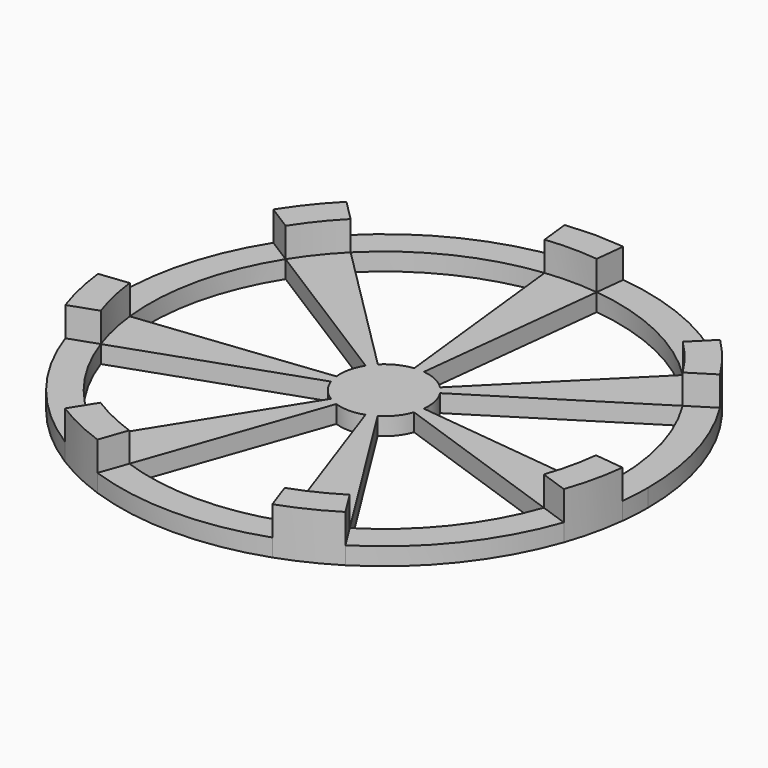
from build123d import *

# Parameters (mm, degrees)
F1_DEPTH = 3
F2_DEPTH = 8


with BuildPart() as f1:
    # F0 (on Top) → F1 (new body)
    with BuildSketch(Plane.XY):
        with BuildLine():
            Line((-4.4375804335, 39.7530864198), (-4.9922779877, 44.7222222222))
            ThreePointArc((-4.9922779877, 44.7222222222), (-19.5247682603, 40.5435990556), (-31.8526068859, 31.786969572))
            Line((-31.8526068859, 31.786969572), (-28.313428343, 28.255084064))
            ThreePointArc((-28.313428343, 28.255084064), (-17.3553495647, 36.0387547161), (-4.4375804335, 39.7530864198))
        make_face()
        with BuildLine():
            Line((-28.313428343, 28.255084064), (-31.8526068859, 31.786969572))
            ThreePointArc((-31.8526068859, 31.786969572), (-35.1824167111, 28.0570410836), (-38.0778757126, 23.980729372))
            Line((-38.0778757126, 23.980729372), (-33.8470006334, 21.3162038862))
            ThreePointArc((-33.8470006334, 21.3162038862), (-31.2732592987, 24.9395920743), (-28.313428343, 28.255084064))
        make_face()
        with BuildLine():
            ThreePointArc((-6.3463126188, 3.9967882287), (-5.8637361185, 4.6761735139), (-5.3087678143, 5.297828262))
            Line((-5.3087678143, 5.297828262), (-28.313428343, 28.255084064))
            ThreePointArc((-28.313428343, 28.255084064), (-31.2732592987, 24.9395920743), (-33.8470006334, 21.3162038862))
            Line((-33.8470006334, 21.3162038862), (-6.3463126188, 3.9967882287))
        make_face()
        with BuildLine():
            ThreePointArc((-7.0816760631, -2.4697903022), (-7.3119593414, -1.6689070047), (-7.4519715166, -0.847419917))
            Line((-7.4519715166, -0.847419917), (-39.7438480886, -4.5195728906))
            ThreePointArc((-39.7438480886, -4.5195728906), (-38.9971164873, -8.9008373583), (-37.7689390034, -13.1722149449))
            Line((-37.7689390034, -13.1722149449), (-7.0816760631, -2.4697903022))
        make_face()
        with BuildLine():
            ThreePointArc((-37.7689390034, -13.1722149449), (-38.9971164873, -8.9008373583), (-39.7438480886, -4.5195728906))
            Line((-39.7438480886, -4.5195728906), (-44.7118290996, -5.0845195019))
            ThreePointArc((-44.7118290996, -5.0845195019), (-43.8717560482, -10.013442028), (-42.4900563789, -14.818741813))
            Line((-42.4900563789, -14.818741813), (-37.7689390034, -13.1722149449))
        make_face()
        with BuildLine():
            ThreePointArc((-39.7438480886, -4.5195728906), (-38.9971164873, 8.9008373583), (-33.8470006334, 21.3162038862))
            Line((-33.8470006334, 21.3162038862), (-38.0778757126, 23.980729372))
            ThreePointArc((-38.0778757126, 23.980729372), (-43.8717560482, 10.013442028), (-44.7118290996, -5.0845195019))
            Line((-44.7118290996, -5.0845195019), (-39.7438480886, -4.5195728906))
        make_face()
        with BuildLine():
            ThreePointArc((-21.2463395966, -33.8908992761), (-31.2732592987, -24.9395920743), (-37.7689390034, -13.1722149449))
            Line((-37.7689390034, -13.1722149449), (-42.4900563789, -14.818741813))
            ThreePointArc((-42.4900563789, -14.818741813), (-35.1824167111, -28.0570410836), (-23.9021320462, -38.1272616856))
            Line((-23.9021320462, -38.1272616856), (-21.2463395966, -33.8908992761))
        make_face()
        with BuildLine():
            ThreePointArc((-2.4843929921, -7.0765663609), (-3.2541280434, -6.7572665093), (-3.9836886744, -6.3545436143))
            Line((-3.9836886744, -6.3545436143), (-21.2463395966, -33.8908992761))
            ThreePointArc((-21.2463395966, -33.8908992761), (-17.3553495647, -36.0387547161), (-13.2500959579, -37.7416872583))
            Line((-13.2500959579, -37.7416872583), (-2.4843929921, -7.0765663609))
        make_face()
        with BuildLine():
            ThreePointArc((-23.9021320462, -38.1272616856), (-19.5247682603, -40.5435990556), (-14.9063579526, -42.4593981656))
            Line((-14.9063579526, -42.4593981656), (-13.2500959579, -37.7416872583))
            ThreePointArc((-13.2500959579, -37.7416872583), (-17.3553495647, -36.0387547161), (-21.2463395966, -33.8908992761))
            Line((-21.2463395966, -33.8908992761), (-23.9021320462, -38.1272616856))
        make_face()
        with BuildLine():
            ThreePointArc((-14.9063579526, -42.4593981656), (0, -45), (14.9063579526, -42.4593981656))
            Line((14.9063579526, -42.4593981656), (13.2500959579, -37.7416872583))
            ThreePointArc((13.2500959579, -37.7416872583), (0, -40), (-13.2500959579, -37.7416872583))
            Line((-13.2500959579, -37.7416872583), (-14.9063579526, -42.4593981656))
        make_face()
        with BuildLine():
            ThreePointArc((14.9063579526, -42.4593981656), (19.5247682603, -40.5435990556), (23.9021320462, -38.1272616856))
            Line((23.9021320462, -38.1272616856), (21.2463395966, -33.8908992761))
            ThreePointArc((21.2463395966, -33.8908992761), (17.3553495647, -36.0387547161), (13.2500959579, -37.7416872583))
            Line((13.2500959579, -37.7416872583), (14.9063579526, -42.4593981656))
        make_face()
        with BuildLine():
            ThreePointArc((13.2500959579, -37.7416872583), (17.3553495647, -36.0387547161), (21.2463395966, -33.8908992761))
            Line((21.2463395966, -33.8908992761), (3.9836886744, -6.3545436143))
            ThreePointArc((3.9836886744, -6.3545436143), (3.2541280434, -6.7572665093), (2.4843929921, -7.0765663609))
            Line((2.4843929921, -7.0765663609), (13.2500959579, -37.7416872583))
        make_face()
        with BuildLine():
            ThreePointArc((23.9021320462, -38.1272616856), (35.1824167111, -28.0570410836), (42.4900563789, -14.818741813))
            Line((42.4900563789, -14.818741813), (37.7689390034, -13.1722149449))
            ThreePointArc((37.7689390034, -13.1722149449), (31.2732592987, -24.9395920743), (21.2463395966, -33.8908992761))
            Line((21.2463395966, -33.8908992761), (23.9021320462, -38.1272616856))
        make_face()
        with BuildLine():
            ThreePointArc((42.4900563789, -14.818741813), (43.8717560482, -10.013442028), (44.7118290996, -5.0845195019))
            Line((44.7118290996, -5.0845195019), (39.7438480886, -4.5195728906))
            ThreePointArc((39.7438480886, -4.5195728906), (38.9971164873, -8.9008373583), (37.7689390034, -13.1722149449))
            Line((37.7689390034, -13.1722149449), (42.4900563789, -14.818741813))
        make_face()
        with BuildLine():
            ThreePointArc((37.7689390034, -13.1722149449), (38.9971164873, -8.9008373583), (39.7438480886, -4.5195728906))
            Line((39.7438480886, -4.5195728906), (7.4519715166, -0.847419917))
            ThreePointArc((7.4519715166, -0.847419917), (7.3119593414, -1.6689070047), (7.0816760631, -2.4697903022))
            Line((7.0816760631, -2.4697903022), (37.7689390034, -13.1722149449))
        make_face()
        with BuildLine():
            Line((-5.3087678143, 5.297828262), (0, 0))
            Line((0, 0), (-0.8320463313, 7.4537037037))
            ThreePointArc((-0.8320463313, 7.4537037037), (-3.2541280434, 6.7572665093), (-5.3087678143, 5.297828262))
        make_face()
        with BuildLine():
            Line((-6.3463126188, 3.9967882287), (0, 0))
            Line((0, 0), (-5.3087678143, 5.297828262))
            ThreePointArc((-5.3087678143, 5.297828262), (-5.8637361185, 4.6761735139), (-6.3463126188, 3.9967882287))
        make_face()
        with BuildLine():
            Line((-7.4519715166, -0.847419917), (0, 0))
            Line((0, 0), (-6.3463126188, 3.9967882287))
            ThreePointArc((-6.3463126188, 3.9967882287), (-7.3119593414, 1.6689070047), (-7.4519715166, -0.847419917))
        make_face()
        with BuildLine():
            Line((-7.0816760631, -2.4697903022), (0, 0))
            Line((0, 0), (-7.4519715166, -0.847419917))
            ThreePointArc((-7.4519715166, -0.847419917), (-7.3119593414, -1.6689070047), (-7.0816760631, -2.4697903022))
        make_face()
        with BuildLine():
            Line((-3.9836886744, -6.3545436143), (0, 0))
            Line((0, 0), (-7.0816760631, -2.4697903022))
            ThreePointArc((-7.0816760631, -2.4697903022), (-5.8637361185, -4.6761735139), (-3.9836886744, -6.3545436143))
        make_face()
        with BuildLine():
            Line((-2.4843929921, -7.0765663609), (0, 0))
            Line((0, 0), (-3.9836886744, -6.3545436143))
            ThreePointArc((-3.9836886744, -6.3545436143), (-3.2541280434, -6.7572665093), (-2.4843929921, -7.0765663609))
        make_face()
        with BuildLine():
            Line((2.4843929921, -7.0765663609), (0, 0))
            Line((0, 0), (-2.4843929921, -7.0765663609))
            ThreePointArc((-2.4843929921, -7.0765663609), (0, -7.5), (2.4843929921, -7.0765663609))
        make_face()
        with BuildLine():
            Line((3.9836886744, -6.3545436143), (0, 0))
            Line((0, 0), (2.4843929921, -7.0765663609))
            ThreePointArc((2.4843929921, -7.0765663609), (3.2541280434, -6.7572665093), (3.9836886744, -6.3545436143))
        make_face()
        with BuildLine():
            Line((7.0816760631, -2.4697903022), (0, 0))
            Line((0, 0), (3.9836886744, -6.3545436143))
            ThreePointArc((3.9836886744, -6.3545436143), (5.8637361185, -4.6761735139), (7.0816760631, -2.4697903022))
        make_face()
        with BuildLine():
            ThreePointArc((7.0816760631, -2.4697903022), (7.3119593414, -1.6689070047), (7.4519715166, -0.847419917))
            Line((7.4519715166, -0.847419917), (0, 0))
            Line((0, 0), (7.0816760631, -2.4697903022))
        make_face()
        with BuildLine():
            ThreePointArc((7.5, 0), (7.2058082351, 2.0799826152), (6.3463126188, 3.9967882287))
            Line((6.3463126188, 3.9967882287), (0, 0))
            Line((0, 0), (7.4519715166, -0.847419917))
            ThreePointArc((7.4519715166, -0.847419917), (7.4879832523, -0.4243899301), (7.5, 0))
        make_face()
        with BuildLine():
            Line((0, 0), (6.3463126188, 3.9967882287))
            ThreePointArc((6.3463126188, 3.9967882287), (5.8637361185, 4.6761735139), (5.3087678143, 5.297828262))
            Line((5.3087678143, 5.297828262), (0, 0))
        make_face()
        with BuildLine():
            Line((0, 0), (5.3087678143, 5.297828262))
            ThreePointArc((5.3087678143, 5.297828262), (3.2541280434, 6.7572665093), (0.8320463313, 7.4537037037))
            Line((0.8320463313, 7.4537037037), (0, 0))
        make_face()
        with BuildLine():
            Line((-0.8320463313, 7.4537037037), (0, 0))
            Line((0, 0), (0.8320463313, 7.4537037037))
            ThreePointArc((0.8320463313, 7.4537037037), (0, 7.5), (-0.8320463313, 7.4537037037))
        make_face()
        with BuildLine():
            Line((6.3463126188, 3.9967882287), (33.8470006334, 21.3162038862))
            ThreePointArc((33.8470006334, 21.3162038862), (31.2732592987, 24.9395920743), (28.313428343, 28.255084064))
            Line((28.313428343, 28.255084064), (5.3087678143, 5.297828262))
            ThreePointArc((5.3087678143, 5.297828262), (5.8637361185, 4.6761735139), (6.3463126188, 3.9967882287))
        make_face()
        with BuildLine():
            Line((0.8320463313, 7.4537037037), (4.4375804335, 39.7530864198))
            ThreePointArc((4.4375804335, 39.7530864198), (0, 40), (-4.4375804335, 39.7530864198))
            Line((-4.4375804335, 39.7530864198), (-0.8320463313, 7.4537037037))
            ThreePointArc((-0.8320463313, 7.4537037037), (0, 7.5), (0.8320463313, 7.4537037037))
        make_face()
        with BuildLine():
            Line((4.4375804335, 39.7530864198), (4.9922779877, 44.7222222222))
            Line((4.9922779877, 44.7222222222), (0, 45))
            Line((0, 45), (-4.9922779877, 44.7222222222))
            Line((-4.9922779877, 44.7222222222), (-4.4375804335, 39.7530864198))
            ThreePointArc((-4.4375804335, 39.7530864198), (0, 40), (4.4375804335, 39.7530864198))
        make_face()
        with BuildLine():
            Line((28.313428343, 28.255084064), (31.8526068859, 31.786969572))
            ThreePointArc((31.8526068859, 31.786969572), (19.5247682603, 40.5435990556), (4.9922779877, 44.7222222222))
            Line((4.9922779877, 44.7222222222), (4.4375804335, 39.7530864198))
            ThreePointArc((4.4375804335, 39.7530864198), (17.3553495647, 36.0387547161), (28.313428343, 28.255084064))
        make_face()
        with BuildLine():
            Line((33.8470006334, 21.3162038862), (38.0778757126, 23.980729372))
            ThreePointArc((38.0778757126, 23.980729372), (35.1824167111, 28.0570410836), (31.8526068859, 31.786969572))
            Line((31.8526068859, 31.786969572), (28.313428343, 28.255084064))
            ThreePointArc((28.313428343, 28.255084064), (31.2732592987, 24.9395920743), (33.8470006334, 21.3162038862))
        make_face()
        with BuildLine():
            ThreePointArc((44.7118290996, -5.0845195019), (44.927899514, -2.5463395803), (45, 0))
            ThreePointArc((45, 0), (43.2348494103, 12.4798956913), (38.0778757126, 23.980729372))
            Line((38.0778757126, 23.980729372), (33.8470006334, 21.3162038862))
            ThreePointArc((33.8470006334, 21.3162038862), (38.4309772536, 11.0932406145), (40, 0))
            ThreePointArc((40, 0), (39.9359106791, -2.2634129603), (39.7438480886, -4.5195728906))
            Line((39.7438480886, -4.5195728906), (44.7118290996, -5.0845195019))
        make_face()
    extrude(amount=F1_DEPTH)

    # F0 (on Top) → F2 (join)
    with BuildSketch(Plane.XY):
        with BuildLine():
            Line((4.4375804335, 39.7530864198), (4.9922779877, 44.7222222222))
            Line((4.9922779877, 44.7222222222), (0, 45))
            Line((0, 45), (-4.9922779877, 44.7222222222))
            Line((-4.9922779877, 44.7222222222), (-4.4375804335, 39.7530864198))
            ThreePointArc((-4.4375804335, 39.7530864198), (0, 40), (4.4375804335, 39.7530864198))
        make_face()
        with BuildLine():
            Line((-28.313428343, 28.255084064), (-31.8526068859, 31.786969572))
            ThreePointArc((-31.8526068859, 31.786969572), (-35.1824167111, 28.0570410836), (-38.0778757126, 23.980729372))
            Line((-38.0778757126, 23.980729372), (-33.8470006334, 21.3162038862))
            ThreePointArc((-33.8470006334, 21.3162038862), (-31.2732592987, 24.9395920743), (-28.313428343, 28.255084064))
        make_face()
        with BuildLine():
            ThreePointArc((-37.7689390034, -13.1722149449), (-38.9971164873, -8.9008373583), (-39.7438480886, -4.5195728906))
            Line((-39.7438480886, -4.5195728906), (-44.7118290996, -5.0845195019))
            ThreePointArc((-44.7118290996, -5.0845195019), (-43.8717560482, -10.013442028), (-42.4900563789, -14.818741813))
            Line((-42.4900563789, -14.818741813), (-37.7689390034, -13.1722149449))
        make_face()
        with BuildLine():
            ThreePointArc((-23.9021320462, -38.1272616856), (-19.5247682603, -40.5435990556), (-14.9063579526, -42.4593981656))
            Line((-14.9063579526, -42.4593981656), (-13.2500959579, -37.7416872583))
            ThreePointArc((-13.2500959579, -37.7416872583), (-17.3553495647, -36.0387547161), (-21.2463395966, -33.8908992761))
            Line((-21.2463395966, -33.8908992761), (-23.9021320462, -38.1272616856))
        make_face()
        with BuildLine():
            ThreePointArc((14.9063579526, -42.4593981656), (19.5247682603, -40.5435990556), (23.9021320462, -38.1272616856))
            Line((23.9021320462, -38.1272616856), (21.2463395966, -33.8908992761))
            ThreePointArc((21.2463395966, -33.8908992761), (17.3553495647, -36.0387547161), (13.2500959579, -37.7416872583))
            Line((13.2500959579, -37.7416872583), (14.9063579526, -42.4593981656))
        make_face()
        with BuildLine():
            ThreePointArc((42.4900563789, -14.818741813), (43.8717560482, -10.013442028), (44.7118290996, -5.0845195019))
            Line((44.7118290996, -5.0845195019), (39.7438480886, -4.5195728906))
            ThreePointArc((39.7438480886, -4.5195728906), (38.9971164873, -8.9008373583), (37.7689390034, -13.1722149449))
            Line((37.7689390034, -13.1722149449), (42.4900563789, -14.818741813))
        make_face()
        with BuildLine():
            Line((33.8470006334, 21.3162038862), (38.0778757126, 23.980729372))
            ThreePointArc((38.0778757126, 23.980729372), (35.1824167111, 28.0570410836), (31.8526068859, 31.786969572))
            Line((31.8526068859, 31.786969572), (28.313428343, 28.255084064))
            ThreePointArc((28.313428343, 28.255084064), (31.2732592987, 24.9395920743), (33.8470006334, 21.3162038862))
        make_face()
    extrude(amount=F2_DEPTH)


solid = f1.part
